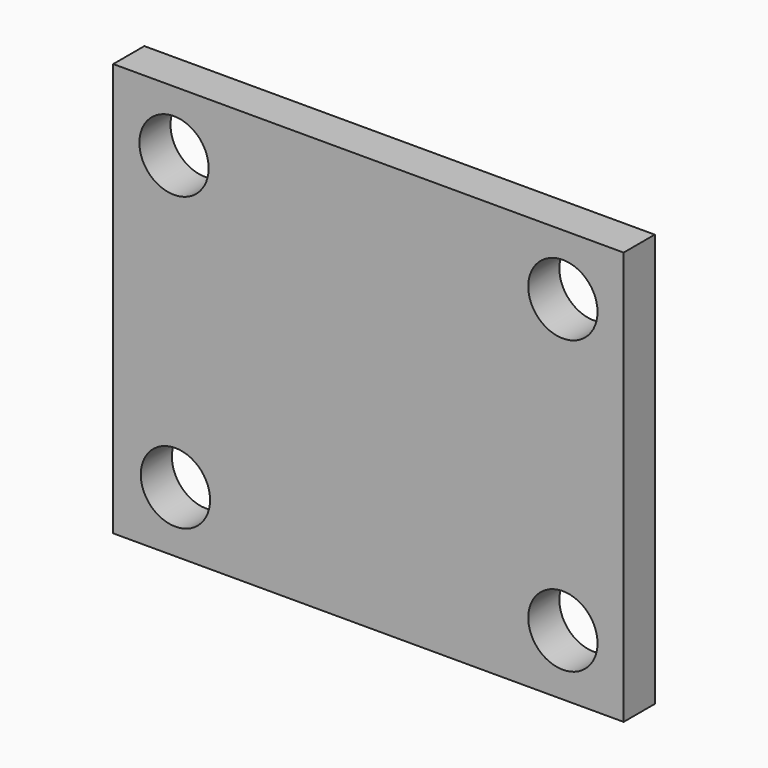
from build123d import *

# Parameters (mm, degrees)
F0_W           = 105
F0_H           = 85
F0_R           = 3.3046670851
F0_R_2         = 3.6747306583
F1_DEPTH       = 8
F2_D           = 8.8
F2_CBORE_D     = 14.25
F2_CBORE_DEPTH = 8


with BuildPart() as f1:
    # F0 (on Front) → F1 (new body)
    with BuildSketch(Plane.XZ):
        Rectangle(F0_W, F0_H)
        with Locations((-39.7101081908, -30)):
            Circle(F0_R, mode=Mode.SUBTRACT)
        with BuildLine():
            ThreePointArc((43.5383924221, -30), (37.4979787239, -32.5020212761), (40, -26.4616075779))
            ThreePointArc((40, -26.4616075779), (42.5020212761, -27.4979787239), (43.5383924221, -30))
        make_face(mode=Mode.SUBTRACT)
        with Locations((-40, 30)):
            Circle(F0_R_2, mode=Mode.SUBTRACT)
        with BuildLine():
            ThreePointArc((40, 26.5591495715), (37.566951329, 27.566951329), (36.5591495715, 30))
            ThreePointArc((36.5591495715, 30), (40, 33.4408504285), (43.4408504285, 30))
            ThreePointArc((43.4408504285, 30), (42.433048671, 27.566951329), (40, 26.5591495715))
        make_face(mode=Mode.SUBTRACT)
        with Locations((-40, 30)):
            Circle(F0_R_2)
        with BuildLine():
            ThreePointArc((43.4408504285, 30), (40, 33.4408504285), (36.5591495715, 30))
            Line((36.5591495715, 30), (40, 30))
            Line((40, 30), (40, 26.5591495715))
            ThreePointArc((40, 26.5591495715), (42.433048671, 27.566951329), (43.4408504285, 30))
        make_face()
        with BuildLine():
            Line((40, 30), (36.5591495715, 30))
            ThreePointArc((36.5591495715, 30), (37.566951329, 27.566951329), (40, 26.5591495715))
            Line((40, 26.5591495715), (40, 30))
        make_face()
        with BuildLine():
            ThreePointArc((43.5383924221, -30), (42.5020212761, -27.4979787239), (40, -26.4616075779))
            ThreePointArc((40, -26.4616075779), (37.4979787239, -32.5020212761), (43.5383924221, -30))
        make_face()
        with Locations((-39.7101081908, -30)):
            Circle(F0_R)
    extrude(amount=F1_DEPTH)

    # F2 (through all)
    with Locations(Plane(origin=(0, 0, 0), x_dir=(1, 0, 0), z_dir=(0, 1, 0))):
        with Locations((-40, -30), (40, -30), (40, 30), (-39.7101081908, 30)):
            CounterBoreHole(F2_D / 2, F2_CBORE_D / 2, F2_CBORE_DEPTH)


solid = f1.part
